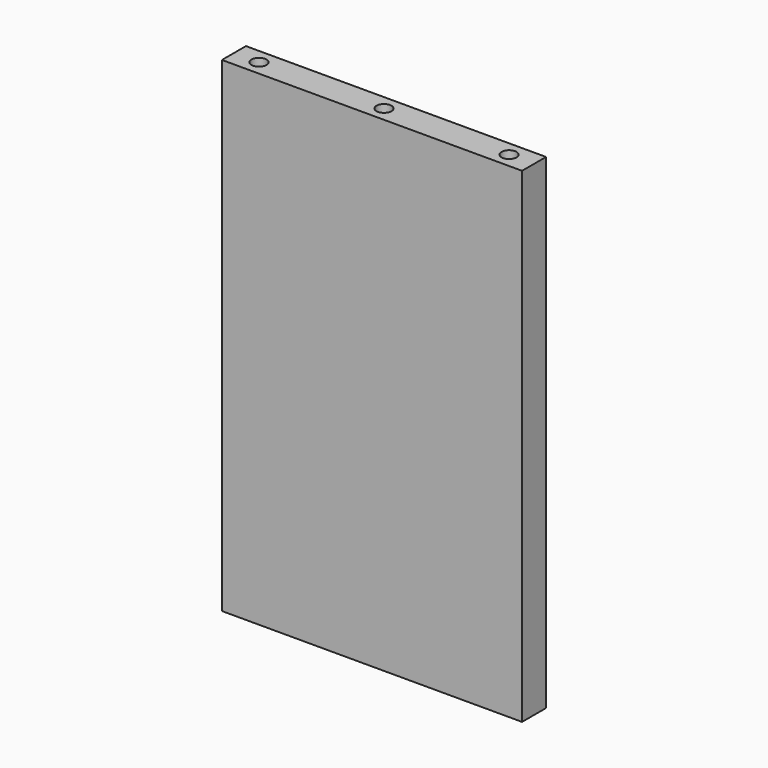
from build123d import *

# Parameters (mm, degrees)
F0_W     = 120
F0_H     = 194
F1_DEPTH = 12
F3_D     = 6
F3_DEPTH = 30
F3_TIP   = 1.8025818571
F5_D     = 6
F5_DEPTH = 30
F5_TIP   = 1.8025818571


with BuildPart() as f1:
    # F0 (on Front) → F1 (new body)
    with BuildSketch(Plane.XZ):
        Rectangle(F0_W, F0_H)
    extrude(amount=F1_DEPTH)

    # F3
    with Locations(Plane.XY.offset(97)):
        with Locations((-50, -6), (0, -6), (50, -6)):
            Hole(F3_D / 2, depth=F3_DEPTH)
            with Locations((0, 0, -(F3_DEPTH + F3_TIP / 2))):  # 118° drill point
                Cone(0, F3_D / 2, F3_TIP, mode=Mode.SUBTRACT)

    # F5
    with Locations(Plane(origin=(0, 0, -97), x_dir=(1, 0, 0), z_dir=(0, 0, -1))):
        with Locations((-50, 6), (0, 6), (50, 6)):
            Hole(F5_D / 2, depth=F5_DEPTH)
            with Locations((0, 0, -(F5_DEPTH + F5_TIP / 2))):  # 118° drill point
                Cone(0, F5_D / 2, F5_TIP, mode=Mode.SUBTRACT)


solid = f1.part
